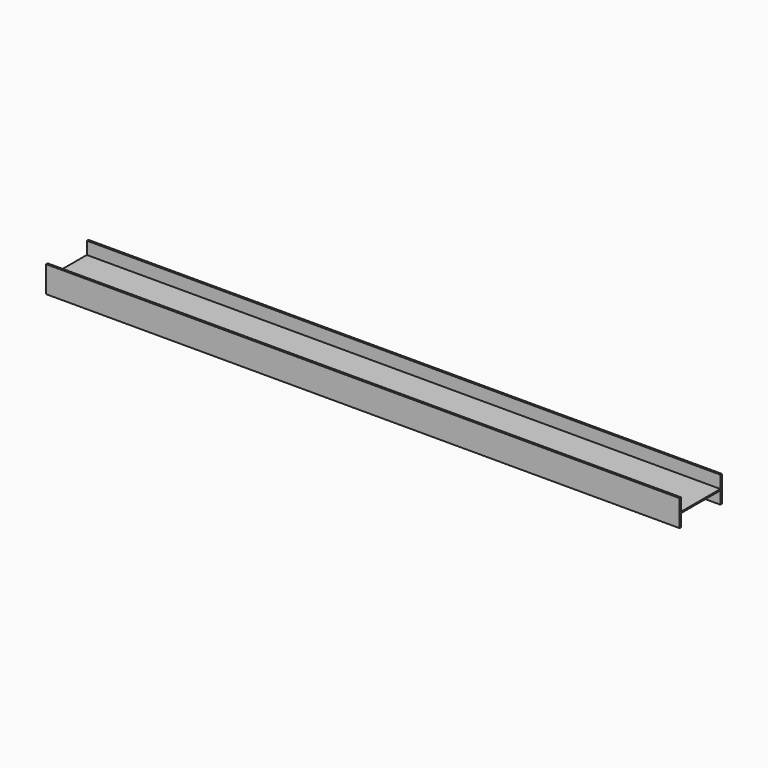
from build123d import *

# Parameters (mm, degrees)
F1_DEPTH = 3000
F2_ANGLE = 90


with BuildPart() as f1:
    # F0 (on Top) → F1 (new body)
    with BuildSketch(Plane.XY):
        Polygon((62.5, 250), (0, 250), (-62.5, 250), (-62.5, 241), (-3, 241), (-3, 9), (-62.5, 9), (-62.5, 0), (0, 0), (62.5, 0), (62.5, 9), (3, 9), (3, 241), (62.5, 241), align=None)
    extrude(amount=F1_DEPTH)


with BuildPart() as f1_1:
    # F2: moved
    add(f1.part.rotate(Axis((-62.5, 4.5, 0), (0, -1, 0)), F2_ANGLE))


solid = f1_1.part
